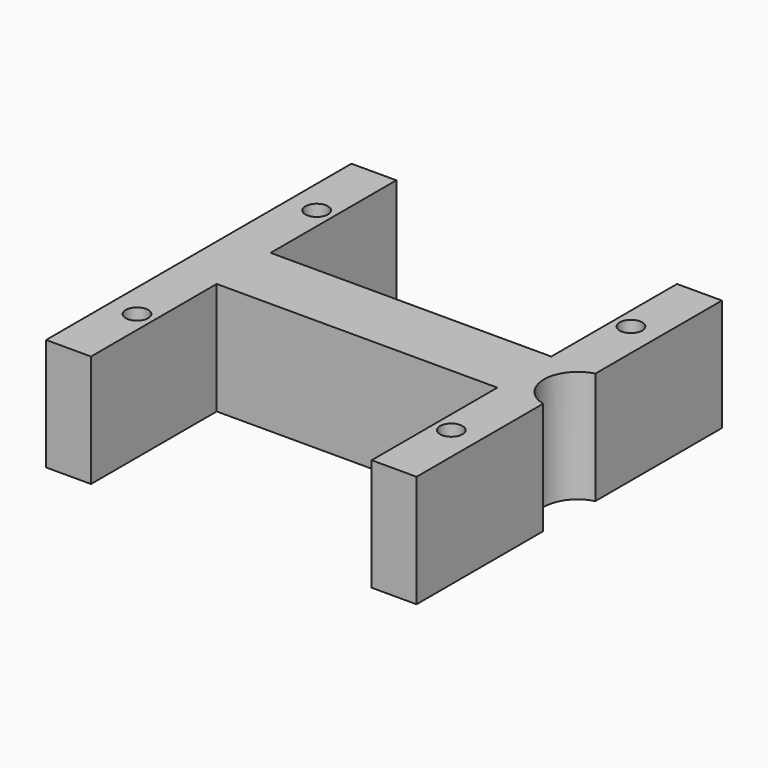
from build123d import *

# Parameters (mm, degrees)
CYLINDER156_R     = 3
CYLINDER156_DEPTH = 20
CYLINDER107_R     = 1
CYLINDER107_DEPTH = 15
CYLINDER108_R     = 1
CYLINDER108_DEPTH = 15
CYLINDER106_R     = 1
CYLINDER106_DEPTH = 15
CYLINDER105_R     = 1
CYLINDER105_DEPTH = 15
PAD005_DEPTH      = 10


with BuildPart() as zylinder156:
    # Cylinder156 → Cylinder156 (new body)
    with BuildSketch(Plane(origin=(28.75, 0, -21), x_dir=(1, 0, 0), z_dir=(0, 0, 1))):
        Circle(CYLINDER156_R)
    extrude(amount=CYLINDER156_DEPTH)


with BuildPart() as zylinder107:
    # Cylinder107 → Cylinder107 (new body)
    with BuildSketch(Plane(origin=(25.5, -10, -20), x_dir=(1, 0, 0), z_dir=(0, 0, 1))):
        Circle(CYLINDER107_R)
    extrude(amount=CYLINDER107_DEPTH)


with BuildPart() as zylinder108:
    # Cylinder108 → Cylinder108 (new body)
    with BuildSketch(Plane(origin=(25.5, 10, -20), x_dir=(1, 0, 0), z_dir=(0, 0, 1))):
        Circle(CYLINDER108_R)
    extrude(amount=CYLINDER108_DEPTH)


with BuildPart() as zylinder106:
    # Cylinder106 → Cylinder106 (new body)
    with BuildSketch(Plane(origin=(-2.5, -10, -20), x_dir=(1, 0, 0), z_dir=(0, 0, 1))):
        Circle(CYLINDER106_R)
    extrude(amount=CYLINDER106_DEPTH)


with BuildPart() as fusion074:
    # Cylinder105 → Cylinder105 (new body)
    with BuildSketch(Plane(origin=(-2.5, 10, -20), x_dir=(1, 0, 0), z_dir=(0, 0, 1))):
        Circle(CYLINDER105_R)
    extrude(amount=CYLINDER105_DEPTH)

    # Fusion074: union Zylinder107, Zylinder108, Zylinder106
    add(zylinder107.part)
    add(zylinder108.part)
    add(zylinder106.part)


with BuildPart() as fusion074_1:
    # Fusion074 placement: moved
    add(fusion074.part.moved(Location((0, 0, 17))))


with BuildPart() as cut076:
    # Sketch004 → Pad005 (new body)
    with BuildSketch(Plane.XY):
        Polygon((-5, 17), (-1, 17), (-1, 3), (24, 3), (24, 17), (28, 17), (28, -17), (24, -17), (24, -3), (-1, -3), (-1, -17), (-5, -17), align=None)
    extrude(amount=PAD005_DEPTH)

    # Cut055: cut Fusion074
    add(fusion074_1.part, mode=Mode.SUBTRACT)


with BuildPart() as cut076_1:
    # Cut055 placement: moved
    add(cut076.part.moved(Location((0, 0, -19))))

    # Cut076: cut Zylinder156
    add(zylinder156.part, mode=Mode.SUBTRACT)


solid = cut076_1.part
